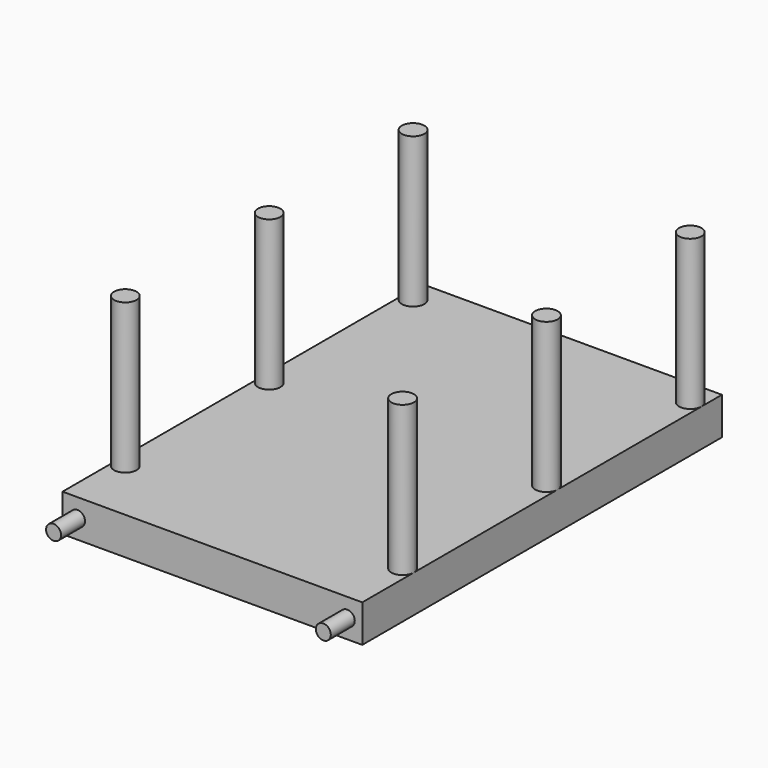
from build123d import *

# Parameters (mm, degrees)
F0_W           = 2000
F0_H           = 250
F0_R           = 50
F1_DEPTH       = 1500
F2_W           = 100
F2_H           = 100
F3_DEPTH       = 100
F4_W           = 80
F4_H           = 20
F5_DEPTH       = 657
F6_W           = 15
F6_H           = 10
F7_DEPTH       = 150
F8_W           = 15
F8_H           = 10
F9_DEPTH       = 150
F10_R          = 50
F11_DEPTH      = 1500
F11_DEPTH_BACK = 200
F12_R          = 75
F13_DEPTH      = 1000
F14_DEPTH      = 500


with BuildPart() as f1:
    # F0 (on Front) → F1 (new body, symmetric)
    with BuildSketch(Plane.XZ):
        with Locations((-486.6556431055, -5.4227706958)):
            Rectangle(F0_W, F0_H)
        with Locations((-1386.6556431055, -5.4227706958)):
            Circle(F0_R, mode=Mode.SUBTRACT)
        with Locations((413.3443568945, -5.4227706958)):
            Circle(F0_R, mode=Mode.SUBTRACT)
    extrude(amount=F1_DEPTH, both=True)

    # F2 (on face) → F3 (join)
    with BuildSketch(Plane(origin=(0, 0, -130.4227706958), x_dir=(1, 0, 0), z_dir=(0, 0, -1))):
        Polygon((-349.9998092651, 100), (-349.9998092651, 250), (-549.9998092651, 250), (-549.9998092651, 100), (-699.9998092651, 100), (-699.9998092651, -100), (-549.9998092651, -100), (-549.9998092651, -250), (-349.9998092651, -250), (-349.9998092651, -100), (-199.9998092651, -100), (-199.9998092651, 100), align=None)
        with Locations((-649.9998092651, 200)):
            Rectangle(F2_W, F2_H)
        with Locations((-249.9998092651, 200)):
            Rectangle(F2_W, F2_H)
        with Locations((-249.9998092651, -200)):
            Rectangle(F2_W, F2_H)
        with Locations((-649.9998092651, -200)):
            Rectangle(F2_W, F2_H)
    extrude(amount=F3_DEPTH)

    # F4 (on face) → F5 (cut)
    with BuildSketch(Plane.YZ.offset(-199.9998092651)):
        with Locations((198.404931426, -144.7911912203)):
            Rectangle(F4_W, F4_H)
        with Locations((-198.404931426, -144.7911912203)):
            Rectangle(F4_W, F4_H)
    extrude(amount=-F5_DEPTH, mode=Mode.SUBTRACT)

    # F6 (on face) → F7 (cut)
    with BuildSketch(Plane.YZ.offset(-199.9998092651)):
        with Locations((-92.5, -135.4227706958)):
            Rectangle(F6_W, F6_H)
        with Locations((92.5, -135.4227706958)):
            Rectangle(F6_W, F6_H)
    extrude(amount=-F7_DEPTH, mode=Mode.SUBTRACT)

    # F8 (on face) → F9 (cut)
    with BuildSketch(Plane(origin=(-699.9998092651, 0, 0), x_dir=(0, -1, 0), z_dir=(-1, 0, 0))):
        with Locations((92.5, -135.4227706958)):
            Rectangle(F8_W, F8_H)
        with Locations((-92.5, -135.4227706958)):
            Rectangle(F8_W, F8_H)
    extrude(amount=-F9_DEPTH, mode=Mode.SUBTRACT)

    # F10 (on face) → F11 (join, two sides)
    with BuildSketch(Plane.XZ.offset(1500)) as f11_sk:
        with Locations((-1386.6556431055, -5.4227706958)):
            Circle(F10_R)
        with Locations((413.3443568945, -5.4227706958)):
            Circle(F10_R)
    extrude(amount=-F11_DEPTH)
    extrude(f11_sk.sketch, amount=F11_DEPTH_BACK)

    # F12 (on face) → F13 (join)
    with BuildSketch(Plane.XY.offset(119.5772293042)):
        with Locations((-1411.6556431055, 1329.9999952316)):
            Circle(F12_R)
        with Locations((-1411.655664444, -1070.0000047684)):
            Circle(F12_R)
        with Locations((-1411.655664444, 129.9999952316)):
            Circle(F12_R)
        with Locations((438.3443568945, 1329.9999952316)):
            Circle(F12_R)
        with Locations((438.344378233, 129.9999952316)):
            Circle(F12_R)
        with Locations((438.344378233, -1070.0000047684)):
            Circle(F12_R)
    extrude(amount=F13_DEPTH)

    # F4 (on face) → F14 (join)
    with BuildSketch(Plane.YZ.offset(-199.9998092651)):
        with Locations((-198.404931426, -144.7911912203)):
            Rectangle(F4_W, F4_H)
        with Locations((198.404931426, -144.7911912203)):
            Rectangle(F4_W, F4_H)
    extrude(amount=F14_DEPTH)


solid = f1.part
